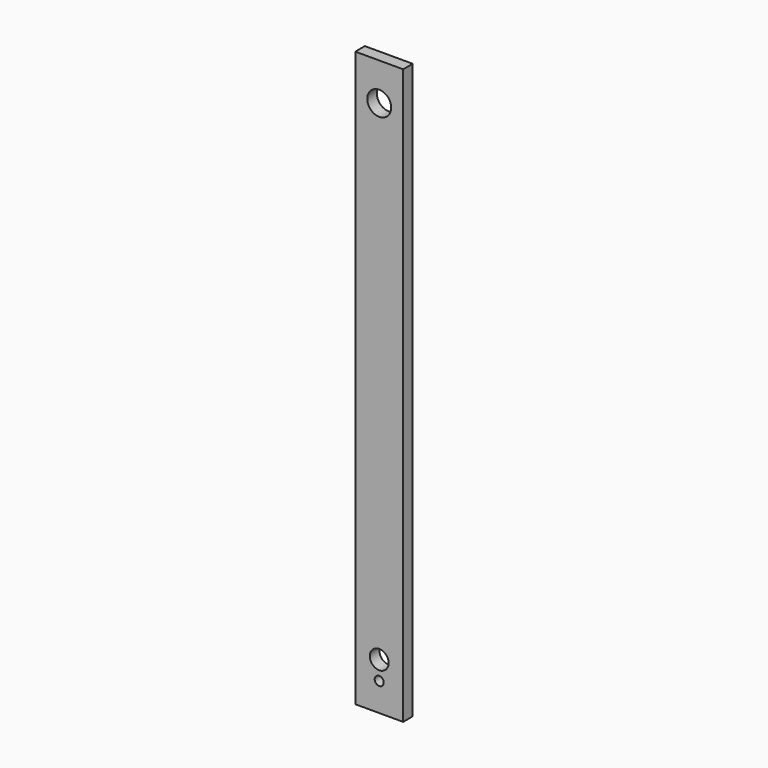
from build123d import *

# Parameters (mm, degrees)
F0_W     = 25.4
F0_H     = 304.8
F1_DEPTH = 6.35
F2_R     = 2.388
F3_DEPTH = 6.351
F4_R     = 6.35
F5_DEPTH = 6.351
F6_R     = 5
F7_DEPTH = 6.351


with BuildPart() as f1:
    # F0 (on Front) → F1 (new body)
    with BuildSketch(Plane.XZ):
        with Locations((12.7, 152.4)):
            Rectangle(F0_W, F0_H)
    extrude(amount=F1_DEPTH)

    # F2 (on face) → F3 (cut, through all)
    with BuildSketch(Plane.XZ.offset(6.35)):
        with Locations((12.7, 15)):
            Circle(F2_R)
    extrude(amount=-F3_DEPTH, mode=Mode.SUBTRACT)

    # F4 (on face) → F5 (cut, through all)
    with BuildSketch(Plane.XZ.offset(6.35)):
        with Locations((12.7, 284.8)):
            Circle(F4_R)
    extrude(amount=-F5_DEPTH, mode=Mode.SUBTRACT)

    # F6 (on face) → F7 (cut, through all)
    with BuildSketch(Plane.XZ.offset(6.35)):
        with Locations((12.7, 25)):
            Circle(F6_R)
    extrude(amount=-F7_DEPTH, mode=Mode.SUBTRACT)


solid = f1.part
